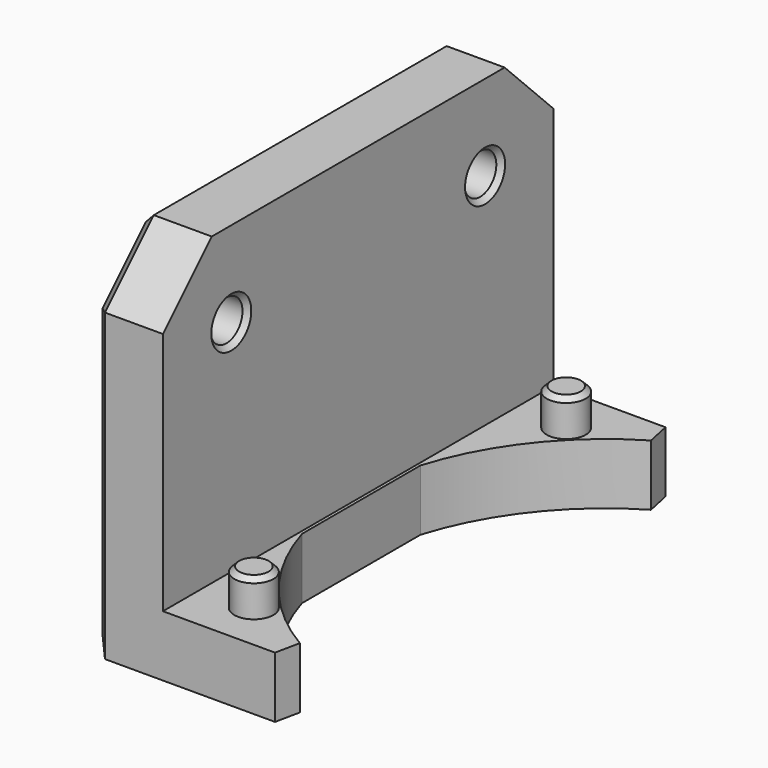
from build123d import *

# Parameters (mm, degrees)
SKETCH105_W              = 21
SKETCH105_H              = 40
PAD032_DEPTH             = 30
POCKET067_DEPTH          = 5
SKETCH107_W              = 20.25
SKETCH107_H              = 40
POCKET068_DEPTH          = 25
SKETCH108_R              = 1.6
PAD033_DEPTH             = 3
SKETCH109_R              = 1.65
POCKET069_DEPTH          = 19.933875
CHAMFER009002001006_SIZE = 5
CHAMFER009002001007_SIZE = 5
CHAMFER009002001008_SIZE = 1
CHAMFER009002001009_SIZE = 0.4


with BuildPart() as part:
    # Sketch105 → Pad032 (new body)
    with BuildSketch(Plane.XY):
        with Locations((-15.5, 0)):
            Rectangle(SKETCH105_W, SKETCH105_H)
    extrude(amount=PAD032_DEPTH)

    # Sketch106 (on Face5 of Pad032) → Pocket067 (cut)
    with BuildSketch(Plane(origin=(0, 0, 0), x_dir=(1, 0, 0), z_dir=(0, 0, -1))):
        with BuildLine():
            ThreePointArc((-20, -6.067125), (20.9, 0), (-20, 6.067125))
            Line((-20, 6.067125), (-20, -6.067125))
        make_face()
    extrude(amount=-POCKET067_DEPTH, mode=Mode.SUBTRACT)

    # Sketch107 (on Face6 of Pocket067) → Pocket068 (cut)
    with BuildSketch(Plane.XY.offset(30)):
        with Locations((-10.125, 0)):
            Rectangle(SKETCH107_W, SKETCH107_H)
    extrude(amount=-POCKET068_DEPTH, mode=Mode.SUBTRACT)

    # Sketch108 (on Face4 of Pocket068) → Pad033 (join)
    with BuildSketch(Plane.XY.offset(5)):
        with Locations((-16, 16)):
            Circle(SKETCH108_R)
        with Locations((-16, -16)):
            Circle(SKETCH108_R)
    extrude(amount=PAD033_DEPTH)

    # Sketch109 (on Face7 of Pad033) → Pocket069 (cut, through all)
    with BuildSketch(Plane(origin=(-26, 0, 0), x_dir=(0, -1, 0), z_dir=(-1, 0, 0))):
        with Locations((-13, 23)):
            Circle(SKETCH109_R)
        with Locations((13, 23)):
            Circle(SKETCH109_R)
    extrude(amount=-POCKET069_DEPTH, mode=Mode.SUBTRACT)

    # Chamfer009002001006
    chamfer009002001006_edges = [part.edges().sort_by_distance(p)[0] for p in [
        (-23.125, 20, 30),
        (-23.125, -20, 30),
    ]]
    chamfer(chamfer009002001006_edges, length=CHAMFER009002001006_SIZE)

    # Chamfer009002001007
    chamfer009002001007_edges = [part.edges().sort_by_distance(p)[0] for p in [
        (-6.067125, -20, 2.5),
        (-6.067125, 20, 2.5),
    ]]
    chamfer(chamfer009002001007_edges, length=CHAMFER009002001007_SIZE)

    # Chamfer009002001008
    chamfer009002001008_edges = [part.edges().sort_by_distance(p)[0] for p in [
        (-26, 0, 0),
        (-26, 20, 12.5),
        (-26, 17.5, 27.5),
        (-26, 0, 30),
        (-26, -17.5, 27.5),
        (-26, -20, 12.5),
    ]]
    chamfer(chamfer009002001008_edges, length=CHAMFER009002001008_SIZE)

    # Chamfer009002001009
    chamfer009002001009_edges = [part.edges().sort_by_distance(p)[0] for p in [
        (-26, 14.65, 23),
        (-26, -11.35, 23),
        (-17.6, -16, 8),
        (-17.6, 16, 8),
        (-20.25, 14.65, 23),
        (-20.25, -11.35, 23),
    ]]
    chamfer(chamfer009002001009_edges, length=CHAMFER009002001009_SIZE)


with BuildPart() as part_1:
    # Body012 placement: moved
    add(part.part.moved(Location((0, 0, -10))))


solid = part_1.part
